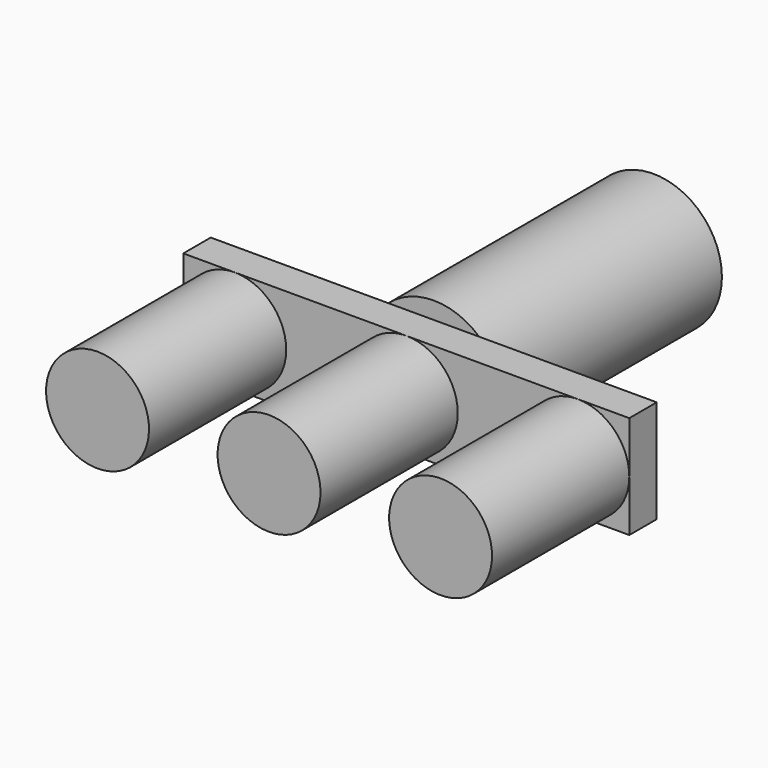
from build123d import *

# Parameters (mm, degrees)
F1_DEPTH = 5
F2_DEPTH = 30
F3_R     = 10
F4_DEPTH = 40


with BuildPart() as f1:
    # F0 (on Front) → F1 (new body)
    with BuildSketch(Plane.XZ):
        with BuildLine():
            Line((25, -7.5), (32.5, -7.5))
            Line((32.5, -7.5), (32.5, 0))
            ThreePointArc((32.5, 0), (30.3033008589, -5.3033008589), (25, -7.5))
        make_face()
        with BuildLine():
            Line((-32.5, -7.5), (-25, -7.5))
            ThreePointArc((-25, -7.5), (-30.3033008589, -5.3033008589), (-32.5, 0))
            Line((-32.5, 0), (-32.5, -7.5))
        make_face()
        with BuildLine():
            ThreePointArc((25, 7.5), (30.3033008589, 5.3033008589), (32.5, 0))
            Line((32.5, 0), (32.5, 7.5))
            Line((32.5, 7.5), (25, 7.5))
        make_face()
        with BuildLine():
            Line((-32.5, 7.5), (-32.5, 0))
            ThreePointArc((-32.5, 0), (-30.3033008589, 5.3033008589), (-25, 7.5))
            Line((-25, 7.5), (-32.5, 7.5))
        make_face()
        with BuildLine():
            Line((-25, -7.5), (-2.86e-08, -7.5))
            ThreePointArc((-2.86e-08, -7.5), (-7.5, 1.43e-08), (0, 7.5))
            Line((0, 7.5), (-25, 7.5))
            ThreePointArc((-25, 7.5), (-19.6966991411, 5.3033008589), (-17.5, 0))
            ThreePointArc((-17.5, 0), (-19.6966991411, -5.3033008589), (-25, -7.5))
        make_face()
        with BuildLine():
            ThreePointArc((-32.5, 0), (-30.3033008589, -5.3033008589), (-25, -7.5))
            ThreePointArc((-25, -7.5), (-19.6966991411, -5.3033008589), (-17.5, 0))
            ThreePointArc((-17.5, 0), (-19.6966991411, 5.3033008589), (-25, 7.5))
            ThreePointArc((-25, 7.5), (-30.3033008589, 5.3033008589), (-32.5, 0))
        make_face()
        with BuildLine():
            ThreePointArc((0, 7.5), (-7.5, 1.43e-08), (-2.86e-08, -7.5))
            ThreePointArc((-2.86e-08, -7.5), (5.3033008488, -5.303300869), (7.5, 0))
            ThreePointArc((7.5, 0), (5.3033008589, 5.3033008589), (0, 7.5))
        make_face()
        with BuildLine():
            Line((-2.86e-08, -7.5), (25, -7.5))
            ThreePointArc((25, -7.5), (17.5, 0), (25, 7.5))
            Line((25, 7.5), (0, 7.5))
            ThreePointArc((0, 7.5), (5.3033008589, 5.3033008589), (7.5, 0))
            ThreePointArc((7.5, 0), (5.3033008488, -5.303300869), (-2.86e-08, -7.5))
        make_face()
        with BuildLine():
            ThreePointArc((25, 7.5), (17.5, 0), (25, -7.5))
            ThreePointArc((25, -7.5), (30.3033008589, -5.3033008589), (32.5, 0))
            ThreePointArc((32.5, 0), (30.3033008589, 5.3033008589), (25, 7.5))
        make_face()
    extrude(amount=F1_DEPTH)

    # F0 (on Front) → F2 (join)
    with BuildSketch(Plane.XZ):
        with BuildLine():
            ThreePointArc((-32.5, 0), (-30.3033008589, -5.3033008589), (-25, -7.5))
            ThreePointArc((-25, -7.5), (-19.6966991411, -5.3033008589), (-17.5, 0))
            ThreePointArc((-17.5, 0), (-19.6966991411, 5.3033008589), (-25, 7.5))
            ThreePointArc((-25, 7.5), (-30.3033008589, 5.3033008589), (-32.5, 0))
        make_face()
        with BuildLine():
            ThreePointArc((25, 7.5), (17.5, 0), (25, -7.5))
            ThreePointArc((25, -7.5), (30.3033008589, -5.3033008589), (32.5, 0))
            ThreePointArc((32.5, 0), (30.3033008589, 5.3033008589), (25, 7.5))
        make_face()
        with BuildLine():
            ThreePointArc((0, 7.5), (-7.5, 1.43e-08), (-2.86e-08, -7.5))
            ThreePointArc((-2.86e-08, -7.5), (5.3033008488, -5.303300869), (7.5, 0))
            ThreePointArc((7.5, 0), (5.3033008589, 5.3033008589), (0, 7.5))
        make_face()
    extrude(amount=F2_DEPTH)

    # F3 (on Front) → F4 (join)
    with BuildSketch(Plane.XZ):
        Circle(F3_R)
    extrude(amount=-F4_DEPTH)


solid = f1.part
